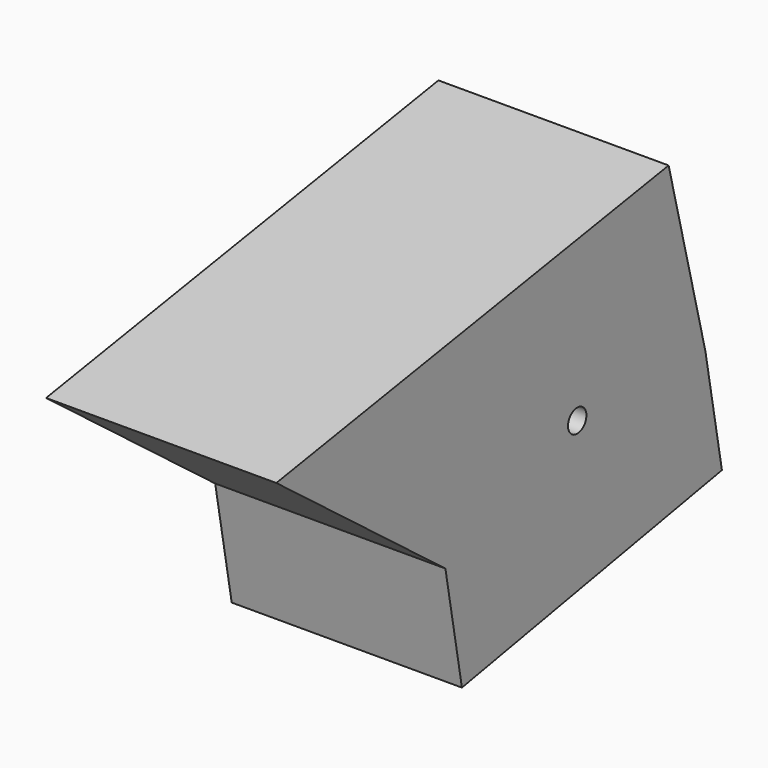
from build123d import *

# Parameters (mm, degrees)
F1_DEPTH      = 25
F1_DEPTH_BACK = 25
F2_DEPTH      = 25
F4_D          = 5


with BuildPart() as f1:
    # F0 (on Right) → F1 (new body, two sides)
    with BuildSketch(Plane.YZ) as f1_sk:
        Polygon((48.1754057109, 59.2439547181), (-58.3366975188, 41.8245978653), (-12.4294357374, 6.8044359796), (58.1552386284, 19.687499851), align=None)
    extrude(amount=F1_DEPTH)
    extrude(f1_sk.sketch, amount=-F1_DEPTH_BACK)

    # F2 (add): a face of the model
    f2_faces = [f1.faces().sort_by_distance(p)[0] for p in [
        (0, 22.8629014455, 13.2459679153),
    ]]
    extrude(f2_faces, amount=F2_DEPTH)

    # F4 (through all)
    with Locations(Plane(origin=(-25, 0, 0), x_dir=(0, -1, 0), z_dir=(-1, 0, 0))):
        with Locations((-23.3555603772, 20.5315314233)):
            Hole(F4_D / 2)


solid = f1.part
